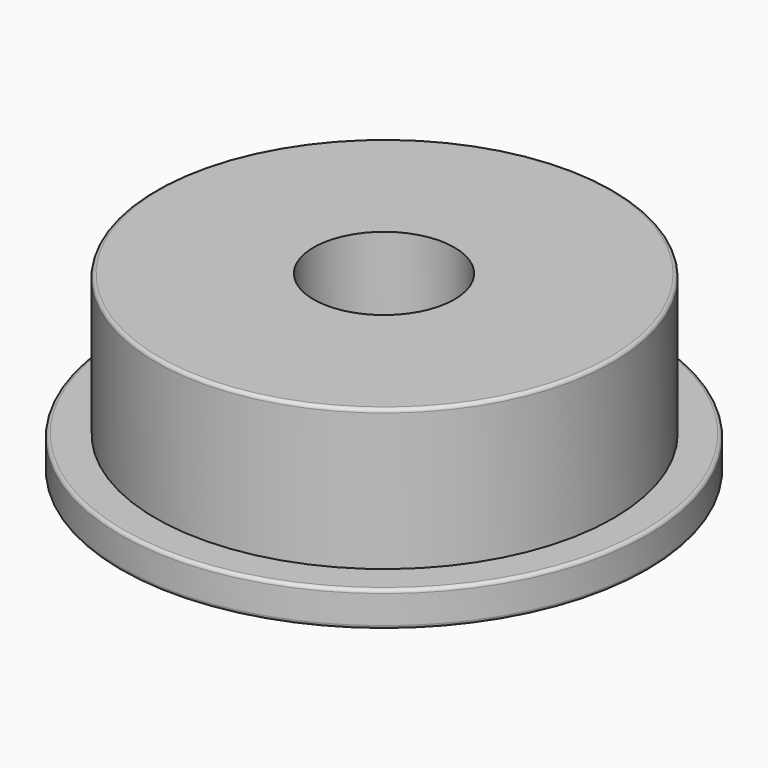
from build123d import *

# Parameters (mm, degrees)
SKETCH_R     = 7.5
PAD_DEPTH    = 1
SKETCH001_R  = 6.5
PAD001_DEPTH = 4
SKETCH002_R  = 2
POCKET_DEPTH = 5.001
FILLET_R     = 0.1


with BuildPart() as part:
    # Sketch → Pad (new body)
    with BuildSketch(Plane.XY):
        Circle(SKETCH_R)
    extrude(amount=PAD_DEPTH)

    # Sketch001 → Pad001 (new body)
    with BuildSketch(Plane.XY.offset(1)):
        with Locations((0.018028, -0.002987)):
            Circle(SKETCH001_R)
    extrude(amount=PAD001_DEPTH)

    # Sketch002 → Pocket (cut, through all)
    with BuildSketch(Plane.XY.offset(5)):
        Circle(SKETCH002_R)
    extrude(amount=-POCKET_DEPTH, mode=Mode.SUBTRACT)

    # Fillet
    fillet_edges = [part.edges().sort_by_distance(p)[0] for p in [
        (-7.5, 0, 1),
        (-7.5, 0, 0),
        (-6.481972, -0.002987, 5),
    ]]
    fillet(fillet_edges, radius=FILLET_R)


solid = part.part
